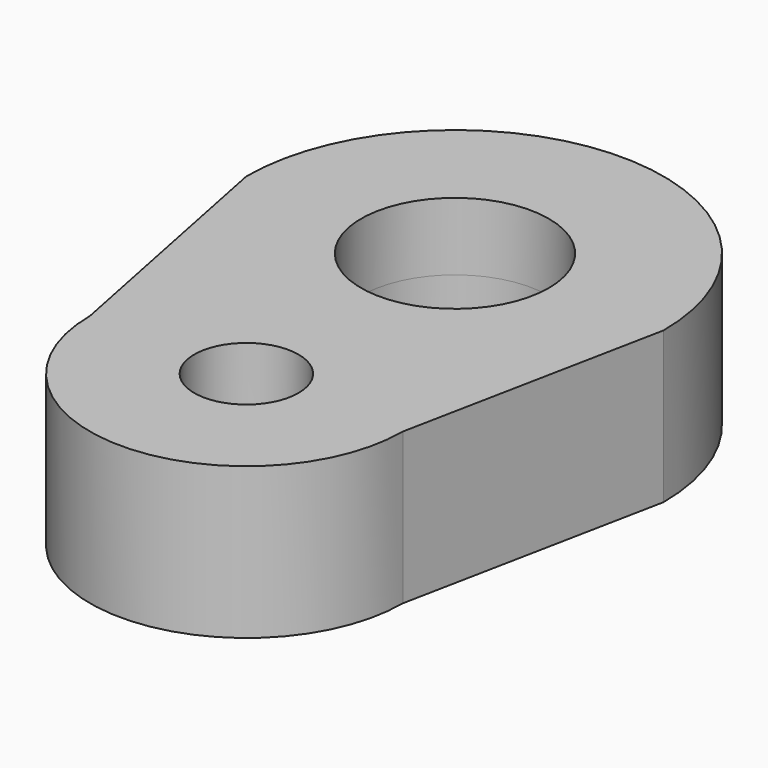
from build123d import *

# Parameters (mm, degrees)
F0_R     = 5
F0_R_2   = 9
F1_DEPTH = 14.5
F2_R     = 15.5
F2_R_2   = 9
F3_DEPTH = 8


with BuildPart() as f1:
    # F0 (on Top) → F1 (new body)
    with BuildSketch(Plane.XY):
        with BuildLine():
            Line((15, 0), (20, 25))
            ThreePointArc((20, 25), (0, 45), (-20, 25))
            Line((-20, 25), (-15, 0))
            ThreePointArc((-15, 0), (0, -15), (15, 0))
        make_face()
        Circle(F0_R, mode=Mode.SUBTRACT)
        with Locations((0, 25)):
            Circle(F0_R_2, mode=Mode.SUBTRACT)
    extrude(amount=F1_DEPTH)


with BuildPart() as f3:
    # F2 (on Top) → F3 (new body)
    with BuildSketch(Plane.XY):
        with Locations((0, 25)):
            Circle(F2_R)
        with Locations((0, 25)):
            Circle(F2_R_2, mode=Mode.SUBTRACT)
    extrude(amount=F3_DEPTH)


solid = Compound([f1.part, f3.part])
